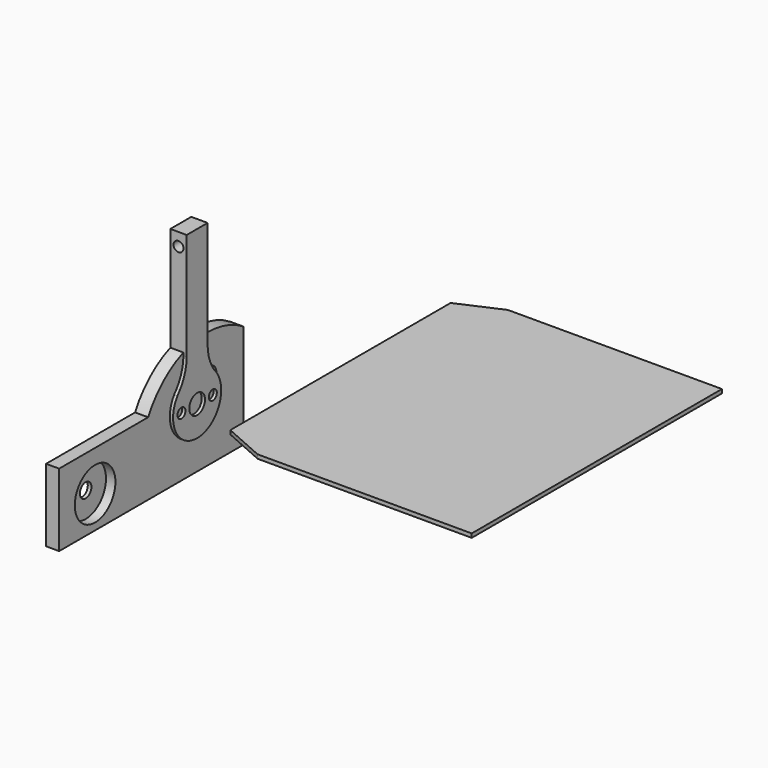
from build123d import *

# Parameters (mm, degrees)
F1_DEPTH  = 7.9375
F2_R      = 2.413
F3_DEPTH  = 12.7
F4_R      = 2.413
F5_DEPTH  = 7.9375
F7_DEPTH  = 6.35
F9_DEPTH  = 1.905
F10_R     = 12.319
F11_DEPTH = 4.572
F12_R     = 3.4925
F13_DEPTH = 1.778


with BuildPart() as f1:
    # F0 (on Right) → F1 (new body)
    with BuildSketch(Plane.YZ):
        with BuildLine():
            Line((-42.043685, 27.915105), (-42.043685, 79.534633))
            Line((-42.043685, 79.534633), (-48.393685, 79.534633))
            Line((-48.393685, 79.534633), (-54.743685, 79.534633))
            Line((-54.743685, 79.534633), (-54.743685, 27.915105))
            ThreePointArc((-54.743685, 27.915105), (-54.742109, 27.653102), (-54.743685, 27.391099))
            Line((-54.743685, 27.391099), (-54.743685, 17.841362))
            ThreePointArc((-54.743685, 17.841362), (-48.393685, 19.294042), (-42.043685, 17.841362))
            Line((-42.043685, 17.841362), (-42.043685, 27.391099))
            ThreePointArc((-42.043685, 27.391099), (-42.04526, 27.653102), (-42.043685, 27.915105))
        make_face()
        with BuildLine():
            Line((-42.043685, 27.391099), (-42.043685, 27.915105))
            ThreePointArc((-42.043685, 27.915105), (-42.04526, 27.653102), (-42.043685, 27.391099))
        make_face()
        with BuildLine():
            ThreePointArc((-37.837233, 14.781978), (-40.925467, 20.757936), (-42.043685, 27.391099))
            Line((-42.043685, 27.391099), (-42.043685, 17.841362))
            ThreePointArc((-42.043685, 17.841362), (-39.803168, 16.500436), (-37.837233, 14.781978))
        make_face()
        with BuildLine():
            ThreePointArc((-54.743685, 27.391099), (-54.742109, 27.653102), (-54.743685, 27.915105))
            Line((-54.743685, 27.915105), (-54.743685, 27.391099))
        make_face()
        with BuildLine():
            ThreePointArc((-37.837233, 14.781978), (-39.803168, 16.500436), (-42.043685, 17.841362))
            Line((-42.043685, 17.841362), (-42.043685, 9.684633))
            Line((-42.043685, 9.684633), (-54.743685, 9.684633))
            Line((-54.743685, 9.684633), (-54.743685, 17.841362))
            ThreePointArc((-54.743685, 17.841362), (-56.984202, 16.500436), (-58.950136, 14.781978))
            ThreePointArc((-58.950136, 14.781978), (-59.650476, 13.87631), (-60.39742, 13.008679))
            ThreePointArc((-60.39742, 13.008679), (-52.752095, -9.250481), (-33.788685, 4.689042))
            ThreePointArc((-33.788685, 4.689042), (-34.454162, 9.047452), (-36.38995, 13.008679))
            ThreePointArc((-36.38995, 13.008679), (-37.136894, 13.87631), (-37.837233, 14.781978))
        make_face()
        with BuildLine():
            ThreePointArc((-36.38995, 13.008679), (-37.078798, 13.923725), (-37.837233, 14.781978))
            ThreePointArc((-37.837233, 14.781978), (-37.136894, 13.87631), (-36.38995, 13.008679))
        make_face()
        with BuildLine():
            Line((-54.743685, 17.841362), (-54.743685, 27.391099))
            ThreePointArc((-54.743685, 27.391099), (-55.861902, 20.757936), (-58.950136, 14.781978))
            ThreePointArc((-58.950136, 14.781978), (-56.984202, 16.500436), (-54.743685, 17.841362))
        make_face()
        with BuildLine():
            ThreePointArc((-60.39742, 13.008679), (-59.650476, 13.87631), (-58.950136, 14.781978))
            ThreePointArc((-58.950136, 14.781978), (-59.708571, 13.923725), (-60.39742, 13.008679))
        make_face()
        with BuildLine():
            Line((-42.043685, 9.684633), (-42.043685, 17.841362))
            ThreePointArc((-42.043685, 17.841362), (-48.393685, 19.294042), (-54.743685, 17.841362))
            Line((-54.743685, 17.841362), (-54.743685, 9.684633))
            Line((-54.743685, 9.684633), (-42.043685, 9.684633))
        make_face()
    extrude(amount=F1_DEPTH)

    # F2 (on face) → F3 (cut, through all)
    with BuildSketch(Plane.XZ.offset(54.743685)):
        with Locations((3.96875, 73.283965)):
            Circle(F2_R)
    extrude(amount=-F3_DEPTH, mode=Mode.SUBTRACT)

    # F4 (on face) → F5 (cut, through all)
    with BuildSketch(Plane.YZ.offset(7.9375)):
        with BuildLine():
            ThreePointArc((-53.156185, 4.689042), (-48.393685, -0.073458), (-43.631185, 4.689042))
            ThreePointArc((-43.631185, 4.689042), (-48.393685, 9.451542), (-53.156185, 4.689042))
        make_face()
        with Locations((-57.918685, 4.689042)):
            Circle(F4_R)
        with Locations((-38.868685, 4.689042)):
            Circle(F4_R)
    extrude(amount=-F5_DEPTH, mode=Mode.SUBTRACT)


with BuildPart() as f7:
    # F6 (on Right) → F7 (new body)
    with BuildSketch(Plane.YZ):
        with BuildLine():
            Line((-130.1651, 9.797143), (-130.1651, -25.480296))
            Line((-130.1651, -25.480296), (-18.226277, -25.480296))
            Line((-18.226277, -25.480296), (-18.226277, 9.797143))
            Line((-18.226277, 9.797143), (-35.262521, 9.797143))
            ThreePointArc((-35.262521, 9.797143), (-39.468314, 7.269079), (-43.674108, 9.797143))
            Line((-43.674108, 9.797143), (-76.149739, 9.797143))
            Line((-76.149739, 9.797143), (-130.1651, 9.797143))
        make_face()
        with BuildLine():
            Line((-35.262521, 9.797143), (-18.226277, 9.797143))
            Line((-18.226277, 9.797143), (-18.226277, 25.00623))
            ThreePointArc((-18.226277, 25.00623), (-50.536408, 30.153991), (-76.149739, 9.797143))
            Line((-76.149739, 9.797143), (-43.674108, 9.797143))
            ThreePointArc((-43.674108, 9.797143), (-40.619686, 16.652807), (-34.705814, 12.031579))
            ThreePointArc((-34.705814, 12.031579), (-34.847086, 10.880208), (-35.262521, 9.797143))
        make_face()
    extrude(amount=F7_DEPTH)

    # F10 (on face) → F11 (cut)
    with BuildSketch(Plane.YZ.offset(6.35)):
        with Locations((-108.349487, -9.797143)):
            Circle(F10_R)
    extrude(amount=-F11_DEPTH, mode=Mode.SUBTRACT)

    # F12 (on face) → F13 (cut, through all)
    with BuildSketch(Plane.YZ.offset(1.778)):
        with Locations((-108.349487, -9.797143)):
            Circle(F12_R)
    extrude(amount=-F13_DEPTH, mode=Mode.SUBTRACT)


with BuildPart() as f9:
    # F8 (on Top) → F9 (new body)
    with BuildSketch(Plane.XY):
        Polygon((48.331061, -62.151473), (152.26819, -62.151473), (152.26819, 89.713275), (48.331061, 89.713275), (27.789352, 80.619893), (27.789352, -53.058092), align=None)
    extrude(amount=F9_DEPTH)


solid = Compound([f1.part, f7.part, f9.part])
